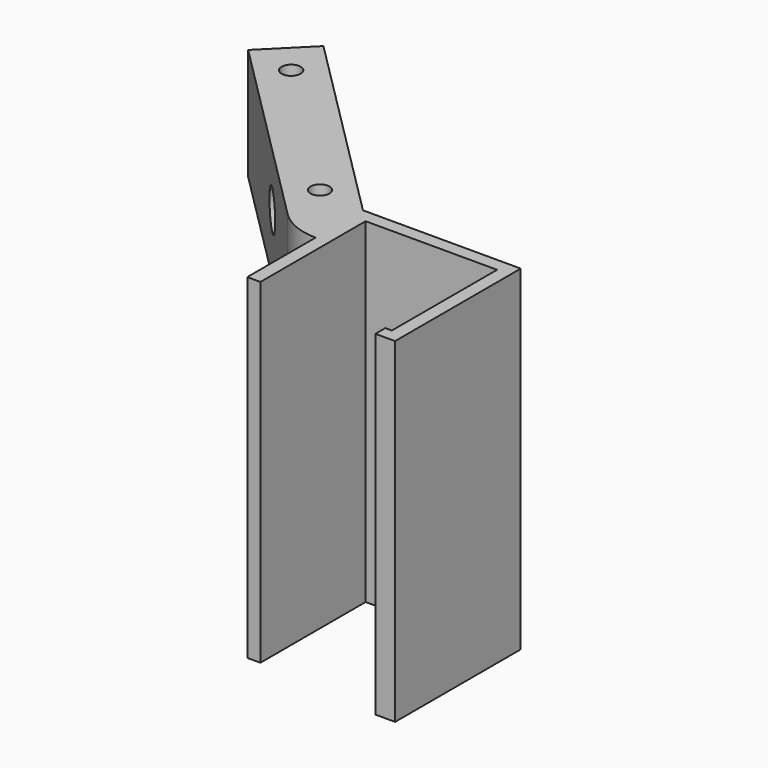
from build123d import *

# Parameters (mm, degrees)
F0_R     = 1.45
F1_DEPTH = 17
F2_DEPTH = 51
F3_R     = 1
F4_DEPTH = 42.6430173342
F3_R_2   = 2.4
F5_DEPTH = 4
F6_SIZE  = 2


with BuildPart() as f1:
    # F0 (on Top) → F1 (new body)
    with BuildSketch(Plane.XY):
        with BuildLine():
            ThreePointArc((-6.2514946472, 3.0411327703), (-8.8875336165, 9.4050938009), (-6.2514946472, 15.7690548316))
            Line((-6.2514946472, 15.7690548316), (-29.9395718169, 39.4571320014))
            Line((-29.9395718169, 39.4571320014), (-36.3035328476, 33.0931709707))
            Line((-36.3035328476, 33.0931709707), (-6.2514946472, 3.0411327703))
        make_face()
        with Locations((-29.0556883405, 32.2092874942)):
            Circle(F0_R, mode=Mode.SUBTRACT)
        with BuildLine():
            Line((-6.2514946472, 3.0411327703), (0.1124663835, 9.4050938009))
            Line((0.1124663835, 9.4050938009), (-6.2514946472, 15.7690548316))
            ThreePointArc((-6.2514946472, 15.7690548316), (-8.8875336165, 9.4050938009), (-6.2514946472, 3.0411327703))
        make_face()
        with Locations((-7.1353781237, 10.2889772774)):
            Circle(F0_R, mode=Mode.SUBTRACT)
        with BuildLine():
            Line((0.1124663835, 0.4050938009), (0.1124663835, 9.4050938009))
            Line((0.1124663835, 9.4050938009), (-6.2514946472, 3.0411327703))
            ThreePointArc((-6.2514946472, 3.0411327703), (-3.3316845078, 1.0901780083), (0.1124663835, 0.4050938009))
        make_face()
        with BuildLine():
            Line((9.1124663835, 9.4050938009), (0.1124663835, 9.4050938009))
            Line((0.1124663835, 9.4050938009), (0.1124663835, 0.4050938009))
            ThreePointArc((0.1124663835, 0.4050938009), (1.1187766024, 0.4615296488), (2.1124663835, 0.6301294135))
            Line((2.1124663835, 0.6301294135), (2.1124663835, 7.4050938009))
            Line((2.1124663835, 7.4050938009), (8.8874307709, 7.4050938009))
            ThreePointArc((8.8874307709, 7.4050938009), (9.0560305356, 8.398783582), (9.1124663835, 9.4050938009))
        make_face()
        with BuildLine():
            ThreePointArc((2.1124663835, 0.6301294135), (1.1187766024, 0.4615296488), (0.1124663835, 0.4050938009))
            Line((0.1124663835, 0.4050938009), (0.1124663835, -12.5949061991))
            Line((0.1124663835, -12.5949061991), (2.1124663835, -12.5949061991))
            Line((2.1124663835, -12.5949061991), (2.1124663835, 0.6301294135))
        make_face()
        with BuildLine():
            Line((24.1124663835, 9.4050938009), (9.1124663835, 9.4050938009))
            ThreePointArc((9.1124663835, 9.4050938009), (9.0560305356, 8.398783582), (8.8874307709, 7.4050938009))
            Line((8.8874307709, 7.4050938009), (22.1124663835, 7.4050938009))
            Line((22.1124663835, 7.4050938009), (22.1124663835, -12.5949061991))
            Line((22.1124663835, -12.5949061991), (21.1124663835, -12.5949061991))
            Line((21.1124663835, -12.5949061991), (21.1124663835, -14.483826209))
            Line((21.1124663835, -14.483826209), (24.1124663835, -14.483826209))
            Line((24.1124663835, -14.483826209), (24.1124663835, -12.5945746742))
            Line((24.1124663835, -12.5945746742), (24.1124663835, 9.4050938009))
        make_face()
    extrude(amount=-F1_DEPTH)

    # F0 (on Top) → F2 (join)
    with BuildSketch(Plane.XY):
        with BuildLine():
            ThreePointArc((2.1124663835, 0.6301294135), (1.1187766024, 0.4615296488), (0.1124663835, 0.4050938009))
            Line((0.1124663835, 0.4050938009), (0.1124663835, -12.5949061991))
            Line((0.1124663835, -12.5949061991), (2.1124663835, -12.5949061991))
            Line((2.1124663835, -12.5949061991), (2.1124663835, 0.6301294135))
        make_face()
        with BuildLine():
            Line((9.1124663835, 9.4050938009), (0.1124663835, 9.4050938009))
            Line((0.1124663835, 9.4050938009), (0.1124663835, 0.4050938009))
            ThreePointArc((0.1124663835, 0.4050938009), (1.1187766024, 0.4615296488), (2.1124663835, 0.6301294135))
            Line((2.1124663835, 0.6301294135), (2.1124663835, 7.4050938009))
            Line((2.1124663835, 7.4050938009), (8.8874307709, 7.4050938009))
            ThreePointArc((8.8874307709, 7.4050938009), (9.0560305356, 8.398783582), (9.1124663835, 9.4050938009))
        make_face()
        with BuildLine():
            Line((24.1124663835, 9.4050938009), (9.1124663835, 9.4050938009))
            ThreePointArc((9.1124663835, 9.4050938009), (9.0560305356, 8.398783582), (8.8874307709, 7.4050938009))
            Line((8.8874307709, 7.4050938009), (22.1124663835, 7.4050938009))
            Line((22.1124663835, 7.4050938009), (22.1124663835, -12.5949061991))
            Line((22.1124663835, -12.5949061991), (21.1124663835, -12.5949061991))
            Line((21.1124663835, -12.5949061991), (21.1124663835, -14.483826209))
            Line((21.1124663835, -14.483826209), (24.1124663835, -14.483826209))
            Line((24.1124663835, -14.483826209), (24.1124663835, -12.5945746742))
            Line((24.1124663835, -12.5945746742), (24.1124663835, 9.4050938009))
        make_face()
    extrude(amount=-F2_DEPTH)

    # F3 (on face) → F4 (cut, through all)
    with BuildSketch(Plane(origin=(4.7587800922, 4.7587800922, 0), x_dir=(-0.7071067812, 0.7071067812, 0), z_dir=(0.7071067812, 0.7071067812, 0))):
        with Locations((23.0708798619, -8)):
            Circle(F3_R)
    extrude(amount=-F4_DEPTH, mode=Mode.SUBTRACT)

    # F3 (on face) → F5 (cut)
    with BuildSketch(Plane(origin=(4.7587800922, 4.7587800922, 0), x_dir=(-0.7071067812, 0.7071067812, 0), z_dir=(0.7071067812, 0.7071067812, 0))):
        with Locations((23.0708798619, -8)):
            Circle(F3_R_2)
        with Locations((23.0708798619, -8)):
            Circle(F3_R, mode=Mode.SUBTRACT)
    extrude(amount=-F5_DEPTH, mode=Mode.SUBTRACT)

    # F6
    f6_edges = [f1.edges().sort_by_distance(p)[0] for p in [
        (-17.21165, 14.001288, -8),
    ]]
    chamfer(f6_edges, length=F6_SIZE)


solid = f1.part
